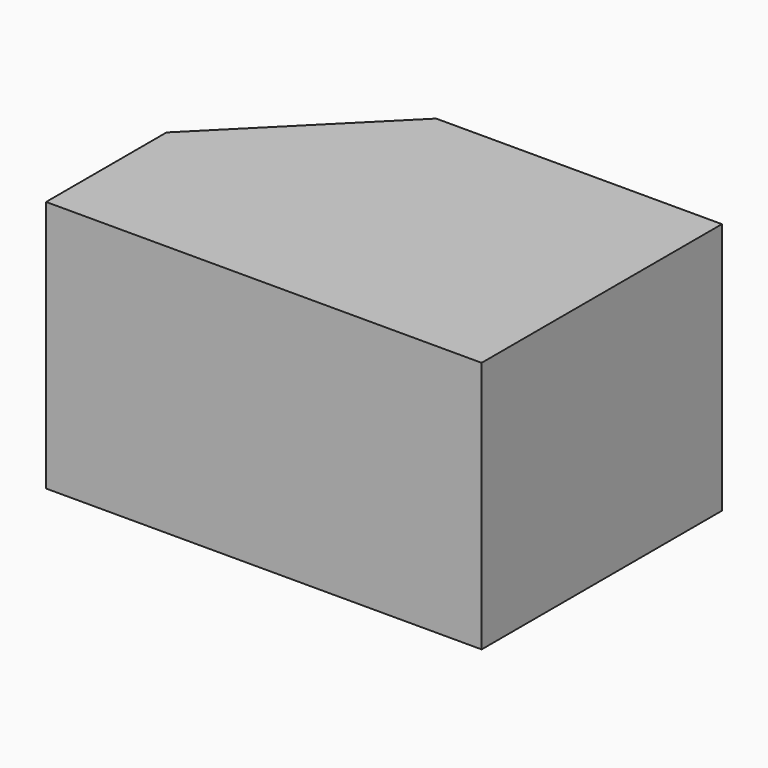
from build123d import *

# Parameters (mm, degrees)
F0_W      = 43.9760684967
F0_H      = 38.9796495438
F1_DEPTH  = 145
F2_DEPTH  = 145
F3_DEPTH  = 84
F4_W      = 44.016815722
F4_H      = 37.3572036624
F5_DEPTH  = 10
F6_DEPTH  = 50
F8_DEPTH  = 50
F11_DEPTH = 84
F13_DEPTH = 45


with BuildPart() as f1:
    # F0 (on Front) → F1 (new body)
    with BuildSketch(Plane.XZ):
        with Locations((21.9880342484, 19.4898247719)):
            Rectangle(F0_W, F0_H)
    extrude(amount=F1_DEPTH)

    # F2 (add): a face of the model
    f2_faces = [f1.faces().sort_by_distance(p)[0] for p in [
        (0, -72.5, 19.4898247719),
    ]]
    extrude(f2_faces, amount=-F2_DEPTH)

    # F3 (add): a face of the model
    f3_faces = [f1.faces().sort_by_distance(p)[0] for p in [
        (72.5, -72.5, 0),
    ]]
    extrude(f3_faces, amount=-F3_DEPTH)

    # F10 (on face) → F11 (cut)
    with BuildSketch(Plane.XY.offset(84)):
        Polygon((0, -49.8955249786), (49.8742908239, 0), (0, 0), align=None)
    extrude(amount=-F11_DEPTH, mode=Mode.SUBTRACT)

    # F13 (cut): a face of the model
    f13_faces = [f1.faces().sort_by_distance(p)[0] for p in [
        (72.5, -145, 42),
    ]]
    extrude(f13_faces, amount=-F13_DEPTH, mode=Mode.SUBTRACT)


with BuildPart() as f5:
    # F4 (on face) → F5 (new body)
    with BuildSketch(Plane.XY.offset(84)):
        with Locations((22.008407861, -18.6786018312)):
            Rectangle(F4_W, F4_H)
    extrude(amount=F5_DEPTH)


with BuildPart() as f6:
    # F6 (new): a face of the model
    f6_faces = [f5.part.faces().sort_by_distance(p)[0] for p in [
        (22.008407861, 0, 89),
    ]]
    extrude(f6_faces, amount=-F6_DEPTH)


with BuildPart() as f8:
    # F8 (new): a face of the model
    f8_faces = [f6.part.faces().sort_by_distance(p)[0] for p in [
        (0, -25, 89),
    ]]
    extrude(f8_faces, amount=-F8_DEPTH)


solid = f1.part
